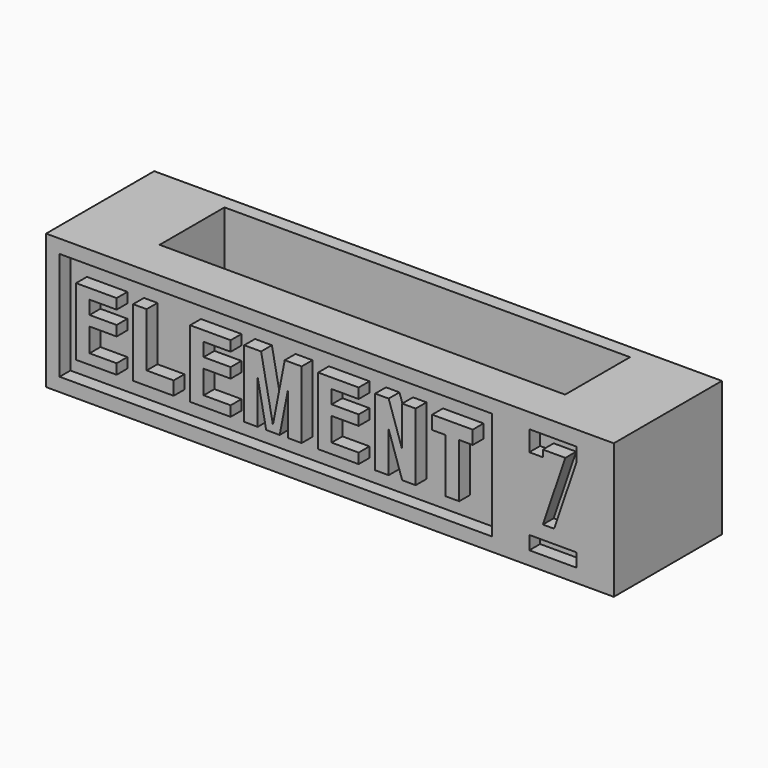
from build123d import *

# Parameters (mm, degrees)
F0_W      = 133.35
F0_H      = 31.75
F1_DEPTH  = 31.75
F2_W      = 101.6
F2_H      = 25.4
F3_DEPTH  = 3.175
F5_DEPTH  = 3.175
F6_W      = 11.1125
F6_H      = 3.175
F7_DEPTH  = 3.175
F9_DEPTH  = 3.175
F11_DEPTH = 3.175
F14_DEPTH = 3.175
F15_DEPTH = 3.175
F17_DEPTH = 3.175
F19_DEPTH = 3.175
F21_DEPTH = 3.175
F22_W     = 95.25
F22_H     = 19.05
F23_DEPTH = 19.05


with BuildPart() as f1:
    # F0 (on Front) → F1 (new body)
    with BuildSketch(Plane.XZ):
        with Locations((66.675, 15.875)):
            Rectangle(F0_W, F0_H)
    extrude(amount=-F1_DEPTH)

    # F2 (on face) → F3 (cut)
    with BuildSketch(Plane.XZ):
        with Locations((53.975, 15.875)):
            Rectangle(F2_W, F2_H)
    extrude(amount=-F3_DEPTH, mode=Mode.SUBTRACT)

    # F4 (on face) → F5 (join)
    with BuildSketch(Plane.XZ.offset(-3.175)):
        Polygon((16.570325, 23.7998), (7.045325, 23.7998), (7.045325, 7.9375), (16.570325, 7.9375), (16.570325, 10.31875), (10.220325, 10.31875), (10.220325, 15.85595), (16.570325, 15.85595), (16.570325, 18.2372), (10.220325, 18.2372), (10.220325, 21.4122), (16.570325, 21.4122), align=None)
    extrude(amount=F5_DEPTH)

    # F6 (on face) → F7 (cut)
    with BuildSketch(Plane.XZ):
        with Locations((119.0625, 4.7625)):
            Rectangle(F6_W, F6_H)
    extrude(amount=-F7_DEPTH, mode=Mode.SUBTRACT)

    # F8 (on face) → F9 (cut)
    with BuildSketch(Plane.XZ):
        Polygon((124.61875, 28.212538), (113.50625, 28.212538), (113.50625, 23.450038), (116.68125, 23.450038), (116.68125, 25.037538), (121.972917, 25.037538), (116.68125, 9.525), (119.327083, 9.525), (124.61875, 25.037538), align=None)
    extrude(amount=-F9_DEPTH, mode=Mode.SUBTRACT)

    # F10 (on face) → F11 (join)
    with BuildSketch(Plane.XZ.offset(-3.175)):
        Polygon((23.61565, 23.7998), (20.44065, 23.7998), (20.44065, 7.9502), (29.96565, 7.9502), (29.96565, 11.1252), (23.61565, 11.1252), align=None)
    extrude(amount=F11_DEPTH)

    # F13 (on face) → F14 (join)
    with BuildSketch(Plane.XZ.offset(-3.175)):
        Polygon((43.360975, 23.7998), (33.835975, 23.7998), (33.835975, 7.9502), (43.360975, 7.9502), (43.360975, 10.3378), (37.010975, 10.3378), (37.010975, 15.8496), (43.360975, 15.8496), (43.360975, 18.2372), (37.010975, 18.2372), (37.010975, 21.4122), (43.360975, 21.4122), align=None)
    extrude(amount=F14_DEPTH)

    # F12 (on face) → F15 (join)
    with BuildSketch(Plane.XZ.offset(-3.175)):
        Polygon((50.504725, 23.7998), (46.535975, 23.7998), (46.535975, 7.9502), (49.710975, 7.9502), (49.710975, 18.146486), (51.69535, 7.9502), (54.87035, 7.9502), (56.854725, 18.146486), (56.854725, 7.9502), (60.029725, 7.9502), (60.029725, 23.7998), (56.060975, 23.7998), (53.28285, 9.525), align=None)
    extrude(amount=F15_DEPTH)

    # F16 (on face) → F17 (join)
    with BuildSketch(Plane.XZ.offset(-3.175)):
        Polygon((73.42505, 23.7998), (63.90005, 23.7998), (63.90005, 7.9502), (73.42505, 7.9502), (73.42505, 10.3378), (67.07505, 10.3378), (67.07505, 15.8496), (73.42505, 15.8496), (73.42505, 18.2372), (67.07505, 18.2372), (67.07505, 21.4122), (73.42505, 21.4122), align=None)
    extrude(amount=F17_DEPTH)

    # F18 (on face) → F19 (join)
    with BuildSketch(Plane.XZ.offset(-3.175)):
        Polygon((80.470375, 23.7998), (77.295375, 23.7998), (77.295375, 7.9502), (80.470375, 7.9502), (80.470375, 17.4752), (83.645375, 7.9502), (86.820375, 7.9502), (86.820375, 23.7998), (83.645375, 23.7998), (83.645375, 14.2748), align=None)
    extrude(amount=F19_DEPTH)

    # F20 (on face) → F21 (join)
    with BuildSketch(Plane.XZ.offset(-3.175)):
        Polygon((100.2157, 23.7998), (90.6907, 23.7998), (90.6907, 20.6248), (93.8657, 20.6248), (93.8657, 7.9502), (97.0407, 7.9502), (97.0407, 20.6248), (100.2157, 20.6248), align=None)
    extrude(amount=F21_DEPTH)

    # F22 (on face) → F23 (cut)
    with BuildSketch(Plane.XY.offset(31.75)):
        with Locations((66.675, 19.05)):
            Rectangle(F22_W, F22_H)
    extrude(amount=-F23_DEPTH, mode=Mode.SUBTRACT)


solid = f1.part
